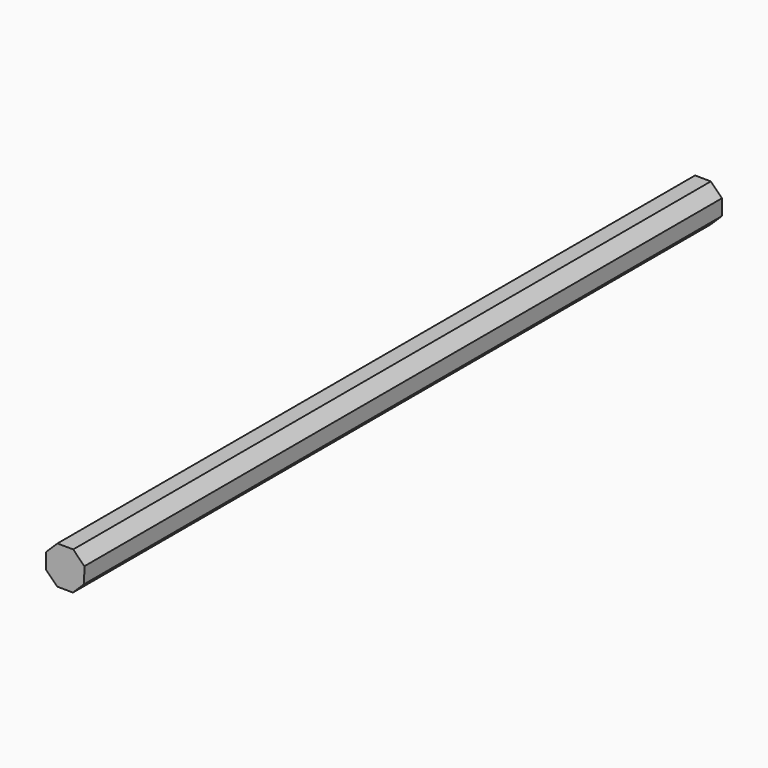
from build123d import *

# Parameters (mm, degrees)
F1_DEPTH = 505


with BuildPart() as f1:
    # F0 (on Front) → F1 (new body)
    with BuildSketch(Plane.XZ):
        Polygon((4.906718, -12.109706), (12.032429, -5.093282), (12.109706, 4.906718), (5.093282, 12.032429), (-4.906718, 12.109706), (-12.032429, 5.093282), (-12.109706, -4.906718), (-5.093282, -12.032429), align=None)
    extrude(amount=F1_DEPTH)


with BuildPart() as f3_1:
    # F3: copy of F1
    add(f1.part)


solid = Compound([f1.part, f3_1.part])
